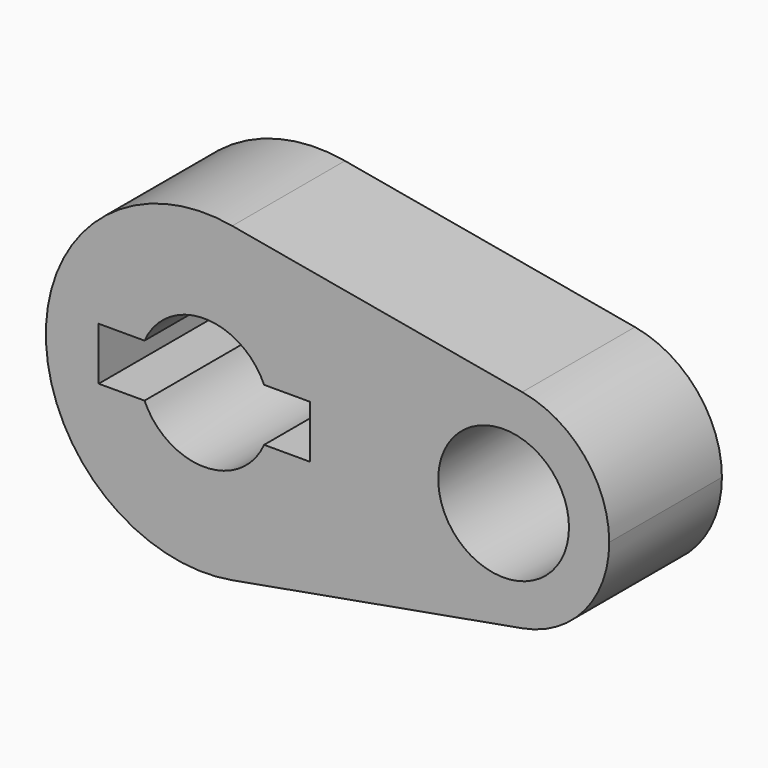
from build123d import *

# Parameters (mm, degrees)
F0_R     = 11.788743
F1_DEPTH = 25.4


with BuildPart() as f1:
    # F0 (on Front) → F1 (new body)
    with BuildSketch(Plane.XZ):
        with BuildLine():
            ThreePointArc((5.042647, -28.126541), (21.916025, -18.336262), (28.575, 0))
            ThreePointArc((28.575, 0), (21.916025, 18.336262), (5.042647, 28.126541))
            ThreePointArc((5.042647, 28.126541), (-28.575, 0), (5.042647, -28.126541))
        make_face()
        with BuildLine():
            ThreePointArc((-10.783926, 4.7625), (0, 11.788743), (10.783926, 4.7625))
            Line((10.783926, 4.7625), (19.05, 4.7625))
            Line((19.05, 4.7625), (19.05, -4.7625))
            Line((19.05, -4.7625), (10.783926, -4.7625))
            ThreePointArc((10.783926, -4.7625), (0, -11.788743), (-10.783926, -4.7625))
            Line((-10.783926, -4.7625), (-19.05, -4.7625))
            Line((-19.05, -4.7625), (-19.05, 4.7625))
            Line((-19.05, 4.7625), (-10.783926, 4.7625))
        make_face(mode=Mode.SUBTRACT)
        with BuildLine():
            ThreePointArc((5.042647, 28.126541), (21.916025, 18.336262), (28.575, 0))
            ThreePointArc((28.575, 0), (21.916025, -18.336262), (5.042647, -28.126541))
            Line((5.042647, -28.126541), (57.336765, -18.751028))
            ThreePointArc((57.336765, -18.751028), (34.925, 0), (57.336765, 18.751028))
            Line((57.336765, 18.751028), (5.042647, 28.126541))
        make_face()
        with BuildLine():
            ThreePointArc((73.025, 0), (68.585683, 12.224174), (57.336765, 18.751028))
            ThreePointArc((57.336765, 18.751028), (34.925, 0), (57.336765, -18.751028))
            ThreePointArc((57.336765, -18.751028), (68.585683, -12.224174), (73.025, 0))
        make_face()
        with Locations((53.975, 0)):
            Circle(F0_R, mode=Mode.SUBTRACT)
    extrude(amount=F1_DEPTH)


solid = f1.part
